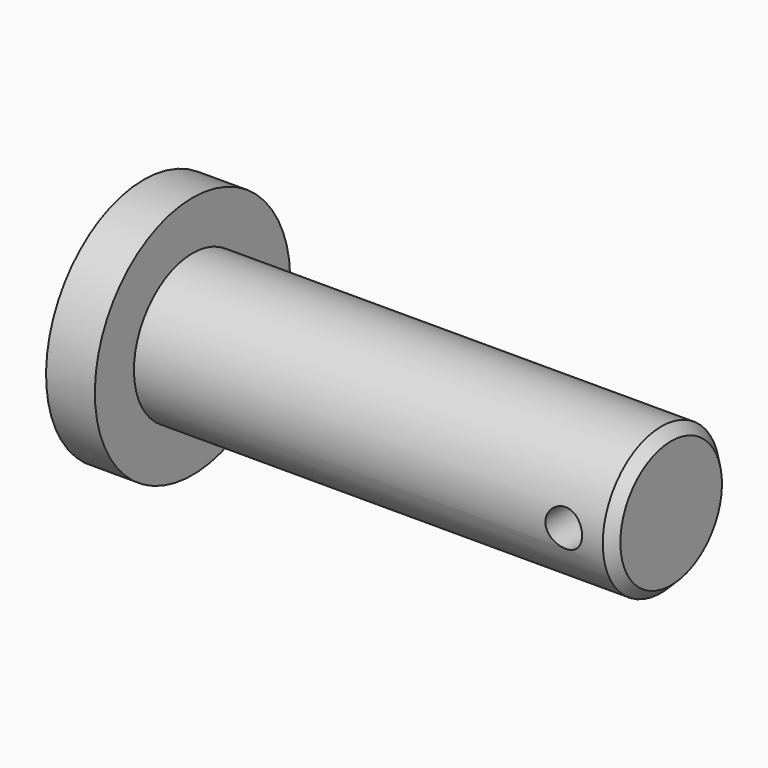
from build123d import *

# Parameters (mm, degrees)
F0_W          = 62.23
F0_H          = 9.525
F2_R          = 2.3876
F3_DEPTH      = 25.4
F3_DEPTH_BACK = 25.4
F4_SIZE2      = 1.27
F4_SIZE       = 1.27


with BuildPart() as f1:
    # F0 (on Front) → F1 (revolve)
    with BuildSketch(Plane.XZ):
        Polygon((0, 15.875), (0, 0), (6.35, 0), (6.35, 9.525), (6.35, 15.875), align=None)
        with Locations((37.465, 4.7625)):
            Rectangle(F0_W, F0_H)
    revolve(axis=Axis((34.29, 0, 0), (-1, 0, 0)))

    # F2 (on Front) → F3 (cut, two sides)
    with BuildSketch(Plane.XZ) as f3_sk:
        with Locations((62.23, 0)):
            Circle(F2_R)
    extrude(amount=-F3_DEPTH, mode=Mode.SUBTRACT)
    extrude(f3_sk.sketch, amount=F3_DEPTH_BACK, mode=Mode.SUBTRACT)

    # F4
    f4_edges = [f1.edges().sort_by_distance(p)[0] for p in [
        (68.58, 0, -9.525),
    ]]
    chamfer(f4_edges, length=F4_SIZE, length2=F4_SIZE2)


solid = f1.part
